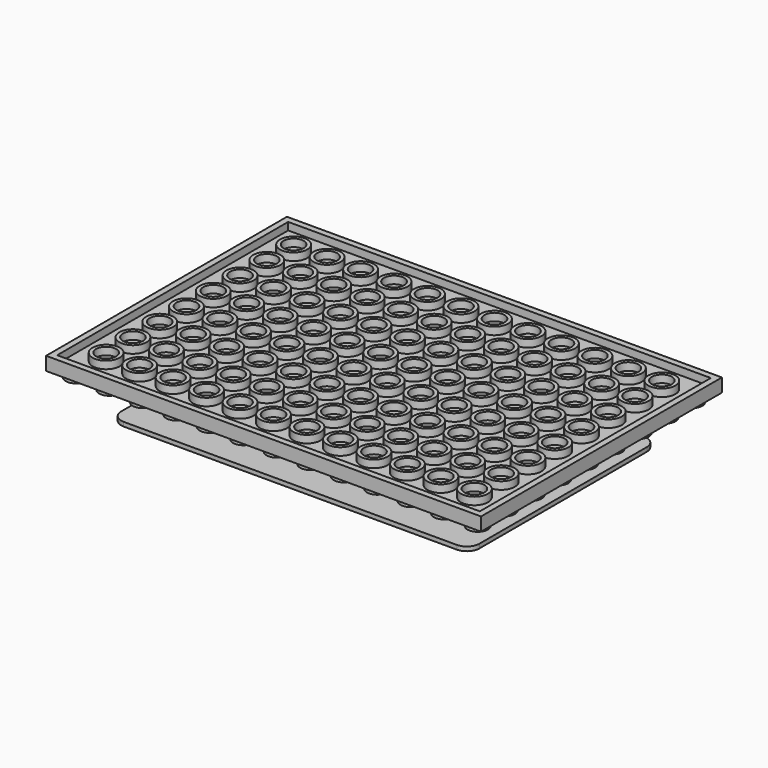
from build123d import *

# Parameters (mm, degrees)
F0_W      = 103.95
F0_H      = 71.95
F1_DEPTH  = 3.2
F2_W      = 101
F2_H      = 69
F2_R      = 3.25
F3_R      = 2.4
F4_DEPTH  = 1.8
F5_R      = 2.45
F6_DEPTH  = 1.7
F7_R      = 2.5
F7_R_2    = 1.25
F8_DEPTH  = 5
F10_W     = 85.6
F10_H     = 56
F11_DEPTH = 1
F12_R     = 3
F13_R     = 1.375
F14_DEPTH = 1


with BuildPart() as f1:
    # F0 (on Top) → F1 (new body)
    with BuildSketch(Plane.XY):
        with Locations((-51.975, 35.975)):
            Rectangle(F0_W, F0_H)
    extrude(amount=-F1_DEPTH)

    # F2 (on Top) + F3 (on Top) → F4 (cut)
    with BuildSketch(Plane.XY):
        with Locations((-51.975, 35.975)):
            Rectangle(F2_W, F2_H)
        with Locations((-95.975, 7.975)):
            Circle(F2_R, mode=Mode.SUBTRACT)
        with Locations((-87.975, 7.975)):
            Circle(F2_R, mode=Mode.SUBTRACT)
        with Locations((-79.975, 7.975)):
            Circle(F2_R, mode=Mode.SUBTRACT)
        with Locations((-95.975, 15.975)):
            Circle(F2_R, mode=Mode.SUBTRACT)
        with Locations((-87.975, 15.975)):
            Circle(F2_R, mode=Mode.SUBTRACT)
        with Locations((-79.975, 15.975)):
            Circle(F2_R, mode=Mode.SUBTRACT)
        with Locations((-71.975, 7.975)):
            Circle(F2_R, mode=Mode.SUBTRACT)
        with Locations((-63.975, 7.975)):
            Circle(F2_R, mode=Mode.SUBTRACT)
        with Locations((-55.975, 7.975)):
            Circle(F2_R, mode=Mode.SUBTRACT)
        with Locations((-71.975, 15.975)):
            Circle(F2_R, mode=Mode.SUBTRACT)
        with Locations((-63.975, 15.975)):
            Circle(F2_R, mode=Mode.SUBTRACT)
        with Locations((-55.975, 15.975)):
            Circle(F2_R, mode=Mode.SUBTRACT)
        with Locations((-95.975, 23.975)):
            Circle(F2_R, mode=Mode.SUBTRACT)
        with Locations((-87.975, 23.975)):
            Circle(F2_R, mode=Mode.SUBTRACT)
        with Locations((-79.975, 23.975)):
            Circle(F2_R, mode=Mode.SUBTRACT)
        with Locations((-95.975, 31.975)):
            Circle(F2_R, mode=Mode.SUBTRACT)
        with Locations((-87.975, 31.975)):
            Circle(F2_R, mode=Mode.SUBTRACT)
        with Locations((-79.975, 31.975)):
            Circle(F2_R, mode=Mode.SUBTRACT)
        with Locations((-71.975, 23.975)):
            Circle(F2_R, mode=Mode.SUBTRACT)
        with Locations((-63.975, 23.975)):
            Circle(F2_R, mode=Mode.SUBTRACT)
        with Locations((-55.975, 23.975)):
            Circle(F2_R, mode=Mode.SUBTRACT)
        with Locations((-71.975, 31.975)):
            Circle(F2_R, mode=Mode.SUBTRACT)
        with Locations((-63.975, 31.975)):
            Circle(F2_R, mode=Mode.SUBTRACT)
        with Locations((-55.975, 31.975)):
            Circle(F2_R, mode=Mode.SUBTRACT)
        with Locations((-47.975, 7.975)):
            Circle(F2_R, mode=Mode.SUBTRACT)
        with Locations((-39.975, 7.975)):
            Circle(F2_R, mode=Mode.SUBTRACT)
        with Locations((-31.975, 7.975)):
            Circle(F2_R, mode=Mode.SUBTRACT)
        with Locations((-47.975, 15.975)):
            Circle(F2_R, mode=Mode.SUBTRACT)
        with Locations((-39.975, 15.975)):
            Circle(F2_R, mode=Mode.SUBTRACT)
        with Locations((-31.975, 15.975)):
            Circle(F2_R, mode=Mode.SUBTRACT)
        with Locations((-23.975, 7.975)):
            Circle(F2_R, mode=Mode.SUBTRACT)
        with Locations((-15.975, 7.975)):
            Circle(F2_R, mode=Mode.SUBTRACT)
        with Locations((-7.975, 7.975)):
            Circle(F2_R, mode=Mode.SUBTRACT)
        with Locations((-23.975, 15.975)):
            Circle(F2_R, mode=Mode.SUBTRACT)
        with Locations((-15.975, 15.975)):
            Circle(F2_R, mode=Mode.SUBTRACT)
        with Locations((-7.975, 15.975)):
            Circle(F2_R, mode=Mode.SUBTRACT)
        with Locations((-47.975, 23.975)):
            Circle(F2_R, mode=Mode.SUBTRACT)
        with Locations((-39.975, 23.975)):
            Circle(F2_R, mode=Mode.SUBTRACT)
        with Locations((-31.975, 23.975)):
            Circle(F2_R, mode=Mode.SUBTRACT)
        with Locations((-47.975, 31.975)):
            Circle(F2_R, mode=Mode.SUBTRACT)
        with Locations((-39.975, 31.975)):
            Circle(F2_R, mode=Mode.SUBTRACT)
        with Locations((-31.975, 31.975)):
            Circle(F2_R, mode=Mode.SUBTRACT)
        with Locations((-23.975, 23.975)):
            Circle(F2_R, mode=Mode.SUBTRACT)
        with Locations((-15.975, 23.975)):
            Circle(F2_R, mode=Mode.SUBTRACT)
        with Locations((-7.975, 23.975)):
            Circle(F2_R, mode=Mode.SUBTRACT)
        with Locations((-23.975, 31.975)):
            Circle(F2_R, mode=Mode.SUBTRACT)
        with Locations((-15.975, 31.975)):
            Circle(F2_R, mode=Mode.SUBTRACT)
        with Locations((-7.975, 31.975)):
            Circle(F2_R, mode=Mode.SUBTRACT)
        with Locations((-95.975, 39.975)):
            Circle(F2_R, mode=Mode.SUBTRACT)
        with Locations((-87.975, 39.975)):
            Circle(F2_R, mode=Mode.SUBTRACT)
        with Locations((-79.975, 39.975)):
            Circle(F2_R, mode=Mode.SUBTRACT)
        with Locations((-95.975, 47.975)):
            Circle(F2_R, mode=Mode.SUBTRACT)
        with Locations((-87.975, 47.975)):
            Circle(F2_R, mode=Mode.SUBTRACT)
        with Locations((-79.975, 47.975)):
            Circle(F2_R, mode=Mode.SUBTRACT)
        with Locations((-71.975, 39.975)):
            Circle(F2_R, mode=Mode.SUBTRACT)
        with Locations((-63.975, 39.975)):
            Circle(F2_R, mode=Mode.SUBTRACT)
        with Locations((-55.975, 39.975)):
            Circle(F2_R, mode=Mode.SUBTRACT)
        with Locations((-71.975, 47.975)):
            Circle(F2_R, mode=Mode.SUBTRACT)
        with Locations((-63.975, 47.975)):
            Circle(F2_R, mode=Mode.SUBTRACT)
        with Locations((-55.975, 47.975)):
            Circle(F2_R, mode=Mode.SUBTRACT)
        with Locations((-95.975, 55.975)):
            Circle(F2_R, mode=Mode.SUBTRACT)
        with Locations((-87.975, 55.975)):
            Circle(F2_R, mode=Mode.SUBTRACT)
        with Locations((-79.975, 55.975)):
            Circle(F2_R, mode=Mode.SUBTRACT)
        with Locations((-95.975, 63.975)):
            Circle(F2_R, mode=Mode.SUBTRACT)
        with Locations((-87.975, 63.975)):
            Circle(F2_R, mode=Mode.SUBTRACT)
        with Locations((-79.975, 63.975)):
            Circle(F2_R, mode=Mode.SUBTRACT)
        with Locations((-71.975, 55.975)):
            Circle(F2_R, mode=Mode.SUBTRACT)
        with Locations((-63.975, 55.975)):
            Circle(F2_R, mode=Mode.SUBTRACT)
        with Locations((-55.975, 55.975)):
            Circle(F2_R, mode=Mode.SUBTRACT)
        with Locations((-71.975, 63.975)):
            Circle(F2_R, mode=Mode.SUBTRACT)
        with Locations((-63.975, 63.975)):
            Circle(F2_R, mode=Mode.SUBTRACT)
        with Locations((-55.975, 63.975)):
            Circle(F2_R, mode=Mode.SUBTRACT)
        with Locations((-47.975, 39.975)):
            Circle(F2_R, mode=Mode.SUBTRACT)
        with Locations((-39.975, 39.975)):
            Circle(F2_R, mode=Mode.SUBTRACT)
        with Locations((-31.975, 39.975)):
            Circle(F2_R, mode=Mode.SUBTRACT)
        with Locations((-47.975, 47.975)):
            Circle(F2_R, mode=Mode.SUBTRACT)
        with Locations((-39.975, 47.975)):
            Circle(F2_R, mode=Mode.SUBTRACT)
        with Locations((-31.975, 47.975)):
            Circle(F2_R, mode=Mode.SUBTRACT)
        with Locations((-23.975, 39.975)):
            Circle(F2_R, mode=Mode.SUBTRACT)
        with Locations((-15.975, 39.975)):
            Circle(F2_R, mode=Mode.SUBTRACT)
        with Locations((-7.975, 39.975)):
            Circle(F2_R, mode=Mode.SUBTRACT)
        with Locations((-23.975, 47.975)):
            Circle(F2_R, mode=Mode.SUBTRACT)
        with Locations((-15.975, 47.975)):
            Circle(F2_R, mode=Mode.SUBTRACT)
        with Locations((-7.975, 47.975)):
            Circle(F2_R, mode=Mode.SUBTRACT)
        with Locations((-47.975, 55.975)):
            Circle(F2_R, mode=Mode.SUBTRACT)
        with Locations((-39.975, 55.975)):
            Circle(F2_R, mode=Mode.SUBTRACT)
        with Locations((-31.975, 55.975)):
            Circle(F2_R, mode=Mode.SUBTRACT)
        with Locations((-47.975, 63.975)):
            Circle(F2_R, mode=Mode.SUBTRACT)
        with Locations((-39.975, 63.975)):
            Circle(F2_R, mode=Mode.SUBTRACT)
        with Locations((-31.975, 63.975)):
            Circle(F2_R, mode=Mode.SUBTRACT)
        with Locations((-23.975, 55.975)):
            Circle(F2_R, mode=Mode.SUBTRACT)
        with Locations((-15.975, 55.975)):
            Circle(F2_R, mode=Mode.SUBTRACT)
        with Locations((-7.975, 55.975)):
            Circle(F2_R, mode=Mode.SUBTRACT)
        with Locations((-23.975, 63.975)):
            Circle(F2_R, mode=Mode.SUBTRACT)
        with Locations((-15.975, 63.975)):
            Circle(F2_R, mode=Mode.SUBTRACT)
        with Locations((-7.975, 63.975)):
            Circle(F2_R, mode=Mode.SUBTRACT)
    with BuildSketch(Plane.XY):
        with Locations((-7.975, 7.975)):
            Circle(F3_R)
        with Locations((-7.975, 15.975)):
            Circle(F3_R)
        with Locations((-7.975, 23.975)):
            Circle(F3_R)
        with Locations((-7.975, 31.975)):
            Circle(F3_R)
        with Locations((-7.975, 39.975)):
            Circle(F3_R)
        with Locations((-7.975, 47.975)):
            Circle(F3_R)
        with Locations((-7.975, 55.975)):
            Circle(F3_R)
        with Locations((-7.975, 63.975)):
            Circle(F3_R)
        with Locations((-15.975, 7.975)):
            Circle(F3_R)
        with Locations((-15.975, 15.975)):
            Circle(F3_R)
        with Locations((-15.975, 23.975)):
            Circle(F3_R)
        with Locations((-15.975, 31.975)):
            Circle(F3_R)
        with Locations((-15.975, 39.975)):
            Circle(F3_R)
        with Locations((-15.975, 47.975)):
            Circle(F3_R)
        with Locations((-15.975, 55.975)):
            Circle(F3_R)
        with Locations((-15.975, 63.975)):
            Circle(F3_R)
        with Locations((-23.975, 7.975)):
            Circle(F3_R)
        with Locations((-23.975, 15.975)):
            Circle(F3_R)
        with Locations((-23.975, 23.975)):
            Circle(F3_R)
        with Locations((-23.975, 31.975)):
            Circle(F3_R)
        with Locations((-23.975, 39.975)):
            Circle(F3_R)
        with Locations((-23.975, 47.975)):
            Circle(F3_R)
        with Locations((-23.975, 55.975)):
            Circle(F3_R)
        with Locations((-23.975, 63.975)):
            Circle(F3_R)
        with Locations((-31.975, 7.975)):
            Circle(F3_R)
        with Locations((-31.975, 15.975)):
            Circle(F3_R)
        with Locations((-31.975, 23.975)):
            Circle(F3_R)
        with Locations((-31.975, 31.975)):
            Circle(F3_R)
        with Locations((-31.975, 39.975)):
            Circle(F3_R)
        with Locations((-31.975, 47.975)):
            Circle(F3_R)
        with Locations((-31.975, 55.975)):
            Circle(F3_R)
        with Locations((-31.975, 63.975)):
            Circle(F3_R)
        with Locations((-39.975, 7.975)):
            Circle(F3_R)
        with Locations((-39.975, 15.975)):
            Circle(F3_R)
        with Locations((-39.975, 23.975)):
            Circle(F3_R)
        with Locations((-39.975, 31.975)):
            Circle(F3_R)
        with Locations((-39.975, 39.975)):
            Circle(F3_R)
        with Locations((-39.975, 47.975)):
            Circle(F3_R)
        with Locations((-39.975, 55.975)):
            Circle(F3_R)
        with Locations((-39.975, 63.975)):
            Circle(F3_R)
        with Locations((-47.975, 7.975)):
            Circle(F3_R)
        with Locations((-47.975, 15.975)):
            Circle(F3_R)
        with Locations((-47.975, 23.975)):
            Circle(F3_R)
        with Locations((-47.975, 31.975)):
            Circle(F3_R)
        with Locations((-47.975, 39.975)):
            Circle(F3_R)
        with Locations((-47.975, 47.975)):
            Circle(F3_R)
        with Locations((-47.975, 55.975)):
            Circle(F3_R)
        with Locations((-47.975, 63.975)):
            Circle(F3_R)
        with Locations((-55.975, 7.975)):
            Circle(F3_R)
        with Locations((-55.975, 15.975)):
            Circle(F3_R)
        with Locations((-55.975, 23.975)):
            Circle(F3_R)
        with Locations((-55.975, 31.975)):
            Circle(F3_R)
        with Locations((-55.975, 39.975)):
            Circle(F3_R)
        with Locations((-55.975, 47.975)):
            Circle(F3_R)
        with Locations((-55.975, 55.975)):
            Circle(F3_R)
        with Locations((-55.975, 63.975)):
            Circle(F3_R)
        with Locations((-63.975, 7.975)):
            Circle(F3_R)
        with Locations((-63.975, 15.975)):
            Circle(F3_R)
        with Locations((-63.975, 23.975)):
            Circle(F3_R)
        with Locations((-63.975, 31.975)):
            Circle(F3_R)
        with Locations((-63.975, 39.975)):
            Circle(F3_R)
        with Locations((-63.975, 47.975)):
            Circle(F3_R)
        with Locations((-63.975, 55.975)):
            Circle(F3_R)
        with Locations((-63.975, 63.975)):
            Circle(F3_R)
        with Locations((-71.975, 7.975)):
            Circle(F3_R)
        with Locations((-71.975, 15.975)):
            Circle(F3_R)
        with Locations((-71.975, 23.975)):
            Circle(F3_R)
        with Locations((-71.975, 31.975)):
            Circle(F3_R)
        with Locations((-71.975, 39.975)):
            Circle(F3_R)
        with Locations((-71.975, 47.975)):
            Circle(F3_R)
        with Locations((-71.975, 55.975)):
            Circle(F3_R)
        with Locations((-71.975, 63.975)):
            Circle(F3_R)
        with Locations((-79.975, 7.975)):
            Circle(F3_R)
        with Locations((-79.975, 15.975)):
            Circle(F3_R)
        with Locations((-79.975, 23.975)):
            Circle(F3_R)
        with Locations((-79.975, 31.975)):
            Circle(F3_R)
        with Locations((-79.975, 39.975)):
            Circle(F3_R)
        with Locations((-79.975, 47.975)):
            Circle(F3_R)
        with Locations((-79.975, 55.975)):
            Circle(F3_R)
        with Locations((-79.975, 63.975)):
            Circle(F3_R)
        with Locations((-87.975, 7.975)):
            Circle(F3_R)
        with Locations((-87.975, 15.975)):
            Circle(F3_R)
        with Locations((-87.975, 23.975)):
            Circle(F3_R)
        with Locations((-87.975, 31.975)):
            Circle(F3_R)
        with Locations((-87.975, 39.975)):
            Circle(F3_R)
        with Locations((-87.975, 47.975)):
            Circle(F3_R)
        with Locations((-87.975, 55.975)):
            Circle(F3_R)
        with Locations((-87.975, 63.975)):
            Circle(F3_R)
        with Locations((-95.975, 7.975)):
            Circle(F3_R)
        with Locations((-95.975, 15.975)):
            Circle(F3_R)
        with Locations((-95.975, 23.975)):
            Circle(F3_R)
        with Locations((-95.975, 31.975)):
            Circle(F3_R)
        with Locations((-95.975, 39.975)):
            Circle(F3_R)
        with Locations((-95.975, 47.975)):
            Circle(F3_R)
        with Locations((-95.975, 55.975)):
            Circle(F3_R)
        with Locations((-95.975, 63.975)):
            Circle(F3_R)
    extrude(amount=-F4_DEPTH, mode=Mode.SUBTRACT)

    # F5 (on face) → F6 (join)
    with BuildSketch(Plane(origin=(0, 0, -3.2), x_dir=(1, 0, 0), z_dir=(0, 0, -1))):
        with Locations((-4, -4)):
            Circle(F5_R)
        with Locations((-4, -12)):
            Circle(F5_R)
        with Locations((-4, -20)):
            Circle(F5_R)
        with Locations((-4, -28)):
            Circle(F5_R)
        with Locations((-4, -36)):
            Circle(F5_R)
        with Locations((-4, -44)):
            Circle(F5_R)
        with Locations((-4, -52)):
            Circle(F5_R)
        with Locations((-4, -60)):
            Circle(F5_R)
        with Locations((-4, -68)):
            Circle(F5_R)
        with Locations((-100, -4)):
            Circle(F5_R)
        with Locations((-100, -12)):
            Circle(F5_R)
        with Locations((-100, -20)):
            Circle(F5_R)
        with Locations((-100, -28)):
            Circle(F5_R)
        with Locations((-100, -36)):
            Circle(F5_R)
        with Locations((-100, -44)):
            Circle(F5_R)
        with Locations((-100, -52)):
            Circle(F5_R)
        with Locations((-100, -60)):
            Circle(F5_R)
        with Locations((-100, -68)):
            Circle(F5_R)
        with Locations((-12, -4)):
            Circle(F5_R)
        with Locations((-20, -4)):
            Circle(F5_R)
        with Locations((-28, -4)):
            Circle(F5_R)
        with Locations((-36, -4)):
            Circle(F5_R)
        with Locations((-44, -4)):
            Circle(F5_R)
        with Locations((-52, -4)):
            Circle(F5_R)
        with Locations((-60, -4)):
            Circle(F5_R)
        with Locations((-68, -4)):
            Circle(F5_R)
        with Locations((-76, -4)):
            Circle(F5_R)
        with Locations((-84, -4)):
            Circle(F5_R)
        with Locations((-92, -4)):
            Circle(F5_R)
        with Locations((-12, -68)):
            Circle(F5_R)
        with Locations((-20, -68)):
            Circle(F5_R)
        with Locations((-28, -68)):
            Circle(F5_R)
        with Locations((-36, -68)):
            Circle(F5_R)
        with Locations((-44, -68)):
            Circle(F5_R)
        with Locations((-52, -68)):
            Circle(F5_R)
        with Locations((-60, -68)):
            Circle(F5_R)
        with Locations((-68, -68)):
            Circle(F5_R)
        with Locations((-76, -68)):
            Circle(F5_R)
        with Locations((-84, -68)):
            Circle(F5_R)
        with Locations((-92, -68)):
            Circle(F5_R)
    extrude(amount=F6_DEPTH)

    # F7 (on face) → F8 (join)
    with BuildSketch(Plane(origin=(0, 0, -3.2), x_dir=(1, 0, 0), z_dir=(0, 0, -1))):
        with Locations((-14.2, -20.5)):
            Circle(F7_R)
        with Locations((-14.2, -20.5)):
            Circle(F7_R_2, mode=Mode.SUBTRACT)
        with Locations((-69.3, -46)):
            Circle(F7_R)
        with Locations((-69.3, -46)):
            Circle(F7_R_2, mode=Mode.SUBTRACT)
    extrude(amount=F8_DEPTH)


with BuildPart() as f11:
    # F10 (on offset) → F11 (new body)
    with BuildSketch(Plane(origin=(0, 0, -13.2), x_dir=(1, 0, 0), z_dir=(0, 0, -1))):
        with Locations((-52, -36)):
            Rectangle(F10_W, F10_H)
    extrude(amount=F11_DEPTH)

    # F12
    f12_edges = [f11.edges().sort_by_distance(p)[0] for p in [
        (-94.8, 8, -13.7),
        (-94.8, 64, -13.7),
        (-9.2, 64, -13.7),
        (-9.2, 8, -13.7),
    ]]
    fillet(f12_edges, radius=F12_R)

    # F13 (on face) → F14 (cut, through all)
    with BuildSketch(Plane(origin=(0, 0, -14.2), x_dir=(1, 0, 0), z_dir=(0, 0, -1))):
        with Locations((-14.2, -20.5)):
            Circle(F13_R)
        with Locations((-69.3, -46)):
            Circle(F13_R)
    extrude(amount=-F14_DEPTH, mode=Mode.SUBTRACT)


solid = Compound([f1.part, f11.part])
